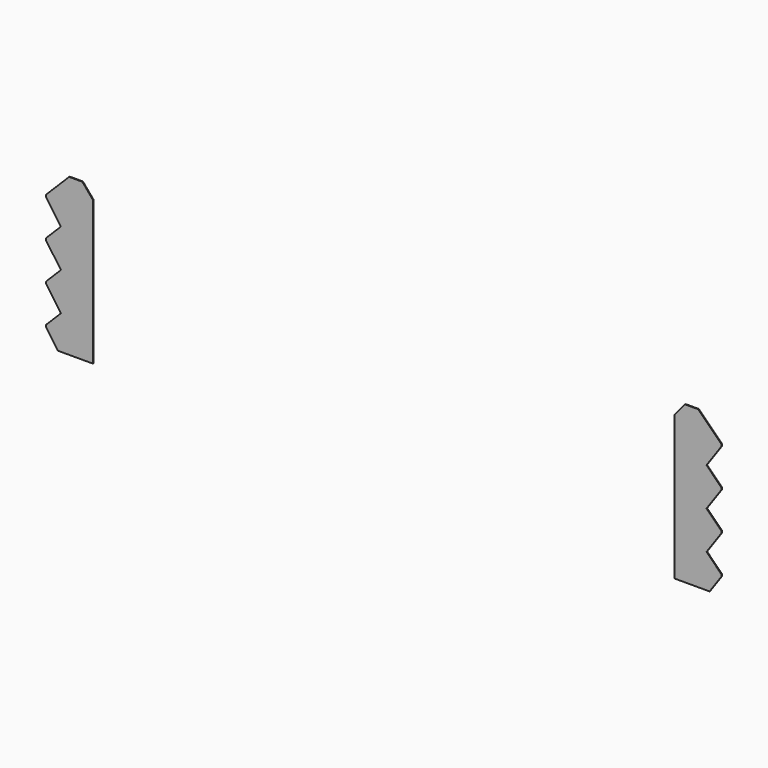
from build123d import *

# Parameters (mm, degrees)
F1_DEPTH = 0.508


with BuildPart() as f1:
    # F0 (on Front) → F1 (new body)
    with BuildSketch(Plane.XZ):
        Polygon((202.46975, 100.4062), (202.46975, 0), (226.758605, 0), (234.9754, 11.7348), (234.9754, 13.2588), (227.233674, 21.000526), (224.671662, 23.562538), (226.749863, 26.530516), (234.9754, 38.2778), (234.9754, 39.8018), (227.212753, 47.564447), (224.650741, 50.126459), (226.728941, 53.094437), (234.9754, 64.8716), (234.9754, 66.3956), (227.212753, 74.158247), (224.650741, 76.720259), (226.728941, 79.688236), (234.9754, 91.4654), (234.9754, 92.9894), (218.9226, 109.0422), (209.716214, 109.0422), align=None)
        Polygon((-234.9754, 64.8716), (-226.728941, 53.094437), (-224.650741, 50.126459), (-227.212753, 47.564447), (-234.9754, 39.8018), (-234.9754, 38.2778), (-226.749863, 26.530516), (-224.671662, 23.562538), (-227.233674, 21.000526), (-234.9754, 13.2588), (-234.9754, 11.7348), (-226.758605, 0), (-202.46975, 0), (-202.46975, 100.4062), (-209.716214, 109.0422), (-218.9226, 109.0422), (-234.9754, 92.9894), (-234.9754, 91.4654), (-226.728941, 79.688237), (-224.650741, 76.720259), (-227.212753, 74.158247), (-234.9754, 66.3956), align=None)
    extrude(amount=-F1_DEPTH)


solid = f1.part
